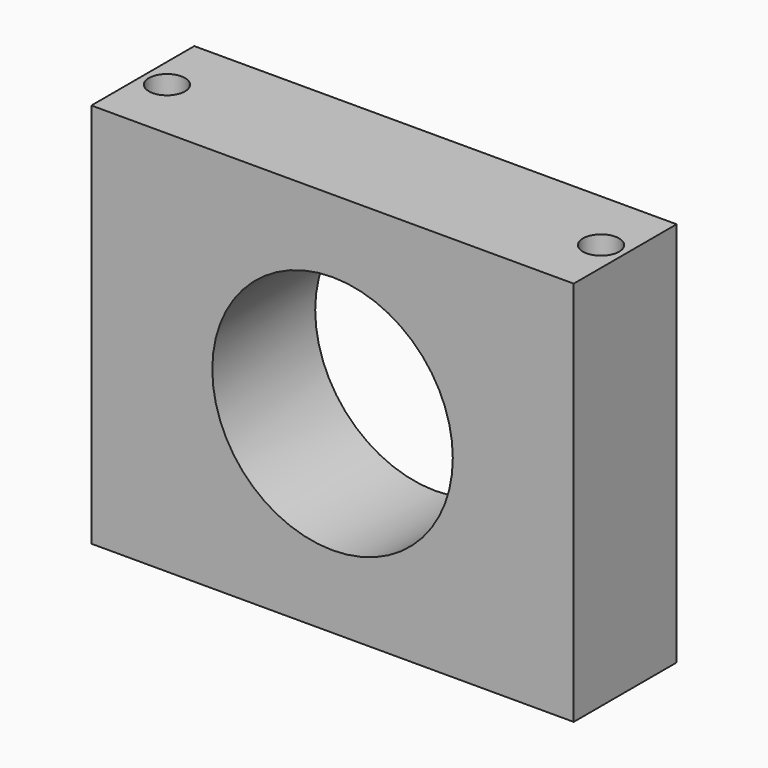
from build123d import *

# Parameters (mm, degrees)
F0_W     = 95.25
F0_H     = 25.4
F1_DEPTH = 76.2
F3_DEPTH = 25.4
F4_R     = 3.5687
F5_DEPTH = 76.2


with BuildPart() as f1:
    # F0 (on Top) → F1 (new body)
    with BuildSketch(Plane.XY):
        with Locations((29.8671370132, 4.7787539661)):
            Rectangle(F0_W, F0_H)
    extrude(amount=F1_DEPTH)

    # F2 (on face) → F3 (cut)
    with BuildSketch(Plane(origin=(0, 17.4787539661, 0), x_dir=(-1, 0, 0), z_dir=(0, 1, 0))):
        with BuildLine():
            ThreePointArc((-53.6161370132, 38.1), (-29.8671370132, 14.351), (-6.1181370132, 38.1))
            Line((-6.1181370132, 38.1), (-53.6161370132, 38.1))
        make_face()
        with BuildLine():
            Line((-53.6161370132, 38.1), (-6.1181370132, 38.1))
            ThreePointArc((-6.1181370132, 38.1), (-29.8671370132, 61.849), (-53.6161370132, 38.1))
        make_face()
    extrude(amount=-F3_DEPTH, mode=Mode.SUBTRACT)

    # F4 (on face) → F5 (cut)
    with BuildSketch(Plane.XY.offset(76.2)):
        with Locations((72.7296370132, 4.7787539661)):
            Circle(F4_R)
        with Locations((-12.9953629868, 4.7787539661)):
            Circle(F4_R)
    extrude(amount=-F5_DEPTH, mode=Mode.SUBTRACT)


solid = f1.part
